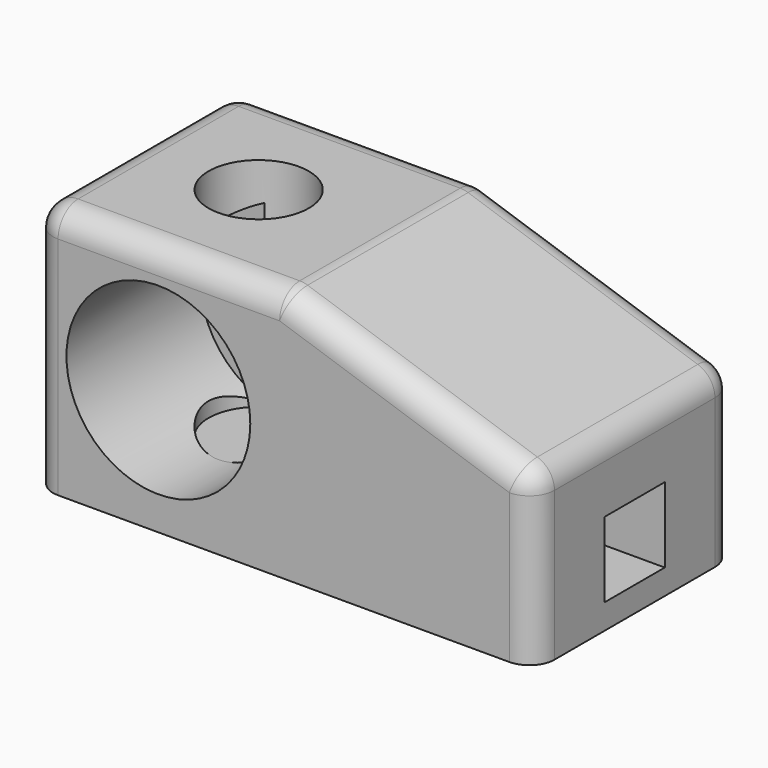
from build123d import *

# Parameters (mm, degrees)
F0_W     = 60
F0_H     = 30
F1_DEPTH = 30
F2_R     = 11
F3_DEPTH = 20
F4_W     = 9
F4_H     = 9
F5_DEPTH = 31
F6_R     = 6
F7_DEPTH = 26
F8_SIZE2 = 10
F8_SIZE  = 30
F9_R     = 3


with BuildPart() as f1:
    # F0 (on Front) → F1 (new body)
    with BuildSketch(Plane.XZ):
        Rectangle(F0_W, F0_H)
    extrude(amount=F1_DEPTH)

    # F2 (on face) → F3 (cut)
    with BuildSketch(Plane.XZ.offset(30)):
        with Locations((-15, 0)):
            Circle(F2_R)
    extrude(amount=-F3_DEPTH, mode=Mode.SUBTRACT)

    # F4 (on face) → F5 (cut)
    with BuildSketch(Plane.YZ.offset(30)):
        with Locations((-15, -7.5)):
            Rectangle(F4_W, F4_H)
    extrude(amount=-F5_DEPTH, mode=Mode.SUBTRACT)

    # F6 (on face) → F7 (cut)
    with BuildSketch(Plane.XY.offset(15)):
        with Locations((-15, -15)):
            Circle(F6_R)
    extrude(amount=-F7_DEPTH, mode=Mode.SUBTRACT)

    # F8
    f8_edges = [f1.edges().sort_by_distance(p)[0] for p in [
        (30, -15, 15),
    ]]
    f8_side = f1.faces().sort_by_distance((1.005666, -15, 15))[0]
    chamfer(f8_edges, length=F8_SIZE, length2=F8_SIZE2, reference=f8_side)

    # F9
    f9_edges = [f1.edges().sort_by_distance(p)[0] for p in [
        (-30, -15, 15),
        (-15, 0, 15),
        (0, -15, 15),
        (30, -15, 5),
        (-15, -30, 15),
        (15, -30, 10),
        (15, 0, 10),
        (30, -30, -5),
        (30, 0, -5),
        (-30, 0, 0),
        (-30, -30, 0),
    ]]
    fillet(f9_edges, radius=F9_R)


solid = f1.part
